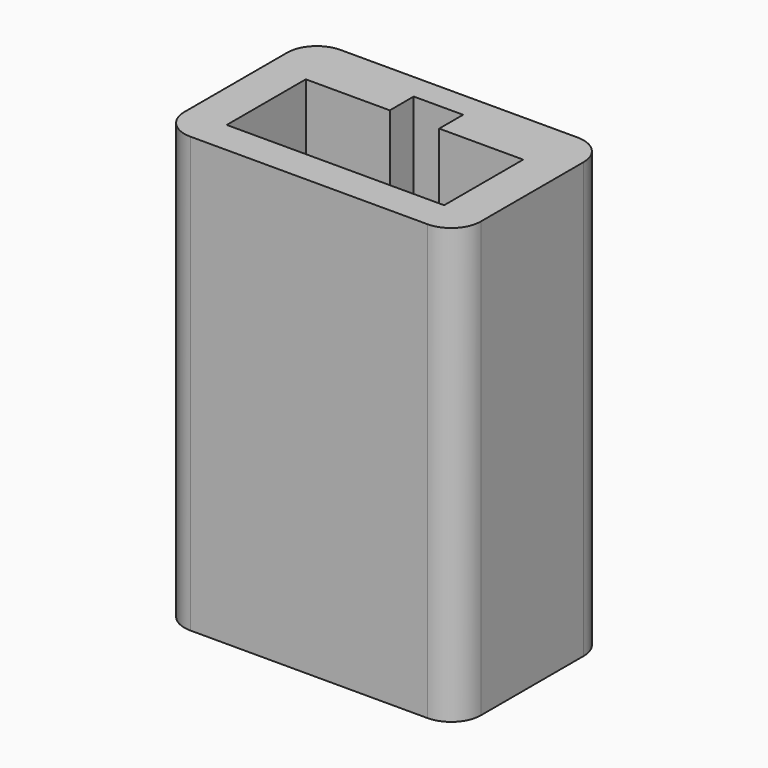
from build123d import *

# Parameters (mm, degrees)
F0_W     = 15
F0_H     = 9.5
F1_DEPTH = 22
F0_W_2   = 8.7
F0_H_2   = 2.8
F2_DEPTH = 12
F3_R     = 1.5


with BuildPart() as f1:
    # F0 (on Top) → F1 (new body)
    with BuildSketch(Plane.XY):
        with Locations((0, 0.571325)):
            Rectangle(F0_W, F0_H)
        Polygon((5.5, 2.5), (5.5, -2.5), (-5.5, -2.5), (-5.5, 2.5), (-1.25, 2.5), (-1.25, 4.012365), (1.25, 4.012365), (1.25, 2.5), align=None, mode=Mode.SUBTRACT)
    extrude(amount=F1_DEPTH)

    # F0 (on Top) → F2 (join)
    with BuildSketch(Plane.XY):
        Polygon((-5.5, -2.5), (5.5, -2.5), (5.5, 2.5), (1.25, 2.5), (1.25, 4.012365), (-1.25, 4.012365), (-1.25, 2.5), (-5.5, 2.5), align=None)
        Rectangle(F0_W_2, F0_H_2, mode=Mode.SUBTRACT)
    extrude(amount=F2_DEPTH)

    # F3
    f3_edges = [f1.edges().sort_by_distance(p)[0] for p in [
        (-7.5, 5.321325, 11),
        (7.5, 5.321325, 11),
        (7.5, -4.178675, 11),
        (-7.5, -4.178675, 11),
    ]]
    fillet(f3_edges, radius=F3_R)


solid = f1.part
